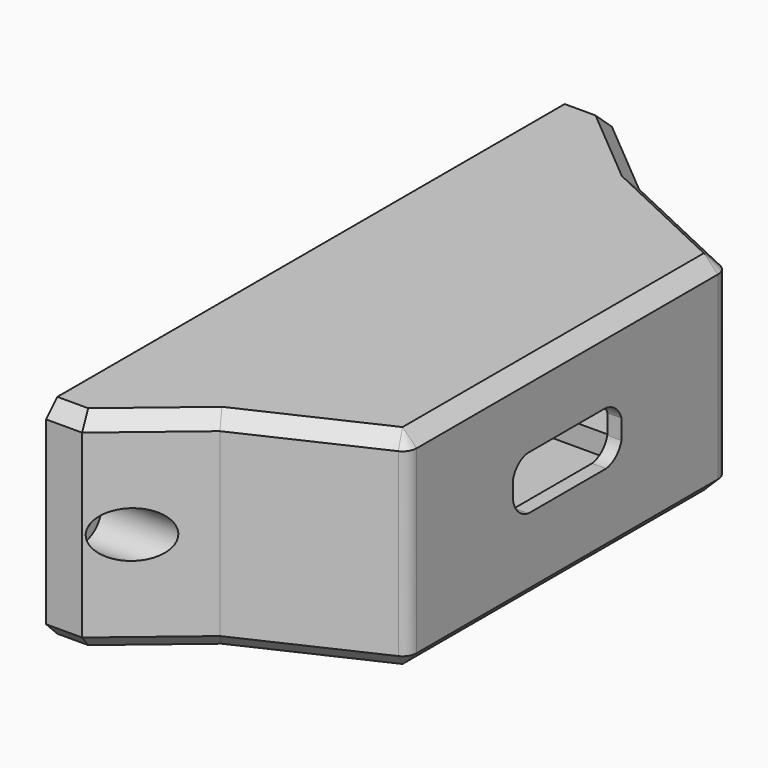
from build123d import *

# Parameters (mm, degrees)
PAD022_DEPTH    = 14.8
POCKET021_DEPTH = 11
PAD023_DEPTH    = 14
POCKET022_DEPTH = 2
SKETCH053_R     = 0.95
POCKET023_DEPTH = 22
SKETCH054_R     = 1.65
POCKET024_DEPTH = 20
FILLET006_R     = 1
CHAMFER022_SIZE = 1
SKETCH055_R     = 0.65
POCKET025_DEPTH = 5


with BuildPart() as part:
    # Sketch049 → Pad022 (new body)
    with BuildSketch(Plane.XY.offset(2.1)):
        Polygon((0, 0), (0, 14), (-9.781659, 18.59873), (-15.64829, 23.521417), (-18.20313, 23.521417), (-18.20313, -23.478583), (-15.64829, -23.478583), (-9.796058, -18.567977), (0, -14), align=None)
    extrude(amount=PAD022_DEPTH)

    # Sketch050 → Pocket021 (cut)
    with BuildSketch(Plane(origin=(-1, 0, 4.1), x_dir=(1, 0, 0), z_dir=(0, 0, 1))):
        Polygon((0, 0), (0, 12), (-9.697087, 16.558969), (-11.439745, 18.021232), (-25.20447, 18.021232), (-25.20447, -17.978768), (-11.439745, -17.978768), (-9.711362, -16.528482), (0, -12), align=None)
    extrude(amount=POCKET021_DEPTH, mode=Mode.SUBTRACT)

    # Sketch051 → Pad023 (join)
    with BuildSketch(Plane(origin=(-1, 0, 7.2), x_dir=(0, 1, 0), z_dir=(1, 0, 0))):
        Polygon((-14.4, 0), (-14.4, 2.5), (-9.1, 2.5), (-9.1, 1), (-11.4, 1), (-11.4, -1), (-9.1, -1), (-9.1, -2.5), (-14.4, -2.5), align=None)
        Polygon((9.1, 1), (11.4, 1), (11.4, 0), (11.4, -1), (9.1, -1), (9.1, -2.5), (14.4, -2.5), (14.4, 2.5), (9.1, 2.5), align=None)
    extrude(amount=-PAD023_DEPTH)

    # Sketch052 → Pocket022 (cut)
    with BuildSketch(Plane(origin=(0, 0, 9.7), x_dir=(0, 1, 0), z_dir=(1, 0, 0))):
        with BuildLine():
            Line((-3.53, 1.9), (3.37, 1.9))
            ThreePointArc((4.8, 0.7), (4.268438, 1.518597), (3.37, 1.9))
            Line((4.8, -0.7), (4.8, 0.7))
            ThreePointArc((3.45, -1.9), (4.308438, -1.506368), (4.8, -0.7))
            Line((-3.45, -1.9), (3.45, -1.9))
            ThreePointArc((-4.8, -0.6), (-4.323725, -1.456368), (-3.45, -1.9))
            Line((-4.8, -0.6), (-4.8, 0.8))
            ThreePointArc((-3.53, 1.9), (-4.333152, 1.544139), (-4.8, 0.8))
        make_face()
    extrude(amount=-POCKET022_DEPTH, mode=Mode.SUBTRACT)

    # Sketch053 → Pocket023 (cut)
    with BuildSketch(Plane.YZ):
        with Locations((-21.7, 9.5)):
            Circle(SKETCH053_R)
        with Locations((21.7, 9.5)):
            Circle(SKETCH053_R)
    extrude(amount=-POCKET023_DEPTH, mode=Mode.SUBTRACT)

    # Sketch054 → Pocket024 (cut)
    with BuildSketch(Plane.YZ.offset(3)):
        with Locations((-21.7, 9.5)):
            Circle(SKETCH054_R)
        with Locations((21.7, 9.5)):
            Circle(SKETCH054_R)
    extrude(amount=-POCKET024_DEPTH, mode=Mode.SUBTRACT)

    # Fillet006
    fillet006_edges = [part.edges().sort_by_distance(p)[0] for p in [
        (0, -14, 9.5),
        (0, 14, 9.5),
    ]]
    fillet(fillet006_edges, radius=FILLET006_R)

    # Chamfer022
    chamfer022_edges = [part.edges().sort_by_distance(p)[0] for p in [
        (-12.714975, 21.060074, 2.1),
        (-16.92571, 23.521417, 2.1),
        (-5.178098, 16.434421, 2.1),
        (0, 6.682568, 2.1),
        (-0.155766, 13.90111, 2.1),
        (0, -6.681465, 2.1),
        (-12.722174, -21.02328, 2.1),
        (-16.92571, -23.478583, 2.1),
        (-5.18672, -16.418607, 2.1),
        (-0.156609, -13.900229, 2.1),
        (-16.92571, -23.478583, 16.9),
        (-12.722174, -21.02328, 16.9),
        (-5.18672, -16.418607, 16.9),
        (-0.156609, -13.900229, 16.9),
        (0, -6.681465, 16.9),
        (0, 6.682568, 16.9),
        (-5.178098, 16.434421, 16.9),
        (-0.155766, 13.90111, 16.9),
        (-12.714975, 21.060074, 16.9),
        (-16.92571, 23.521417, 16.9),
    ]]
    chamfer(chamfer022_edges, length=CHAMFER022_SIZE)

    # Sketch055 → Pocket025 (cut)
    with BuildSketch(Plane.YZ.offset(-11)):
        with Locations((-13, 7.2)):
            Circle(SKETCH055_R)
        with Locations((13, 7.2)):
            Circle(SKETCH055_R)
    extrude(amount=-POCKET025_DEPTH, mode=Mode.SUBTRACT)


with BuildPart() as part_1:
    # Body018 placement: moved
    add(part.part.moved(Location((42, 0, 0))))


solid = part_1.part
